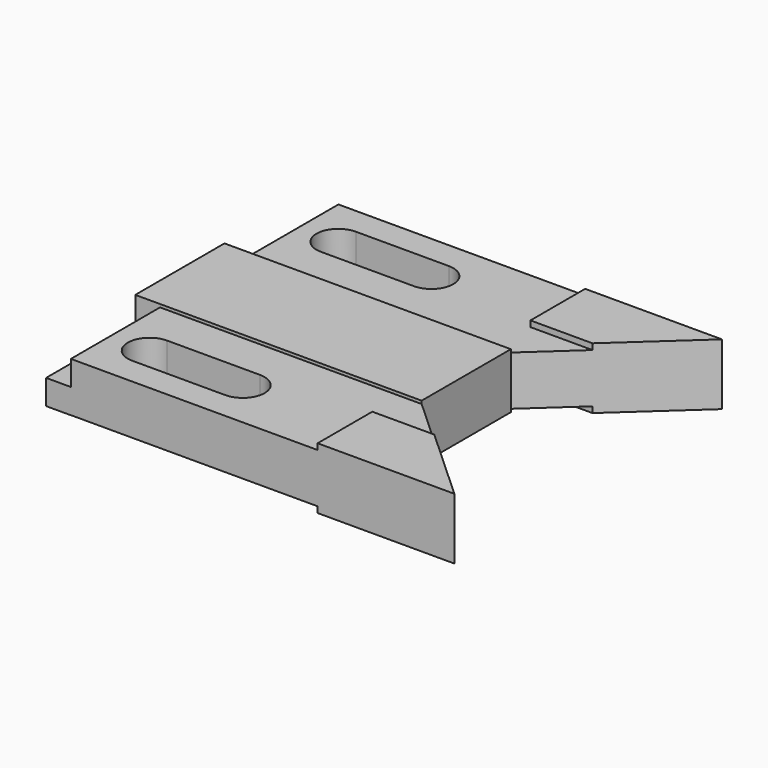
from build123d import *

# Parameters (mm, degrees)
F0_W     = 73.406
F0_H     = 28.575
F2_DEPTH = 7.112
F3_DEPTH = 6.35
F1_W     = 6.35
F1_H     = 28.575
F4_DEPTH = 6.3754
F5_DEPTH = 7.874


with BuildPart() as f2:
    # F0 (on Top) → F2 (new body, symmetric)
    with BuildSketch(Plane.XY):
        Rectangle(F0_W, F0_H)
    extrude(amount=F2_DEPTH, both=True)

    # F1 (on Top) → F3 (join, symmetric)
    with BuildSketch(Plane.XY):
        Polygon((-30.353, 42.8625), (-30.353, 14.2875), (36.703, 14.2875), (48.78324, 25.3365), (32.893, 25.3365), (32.893, 42.8625), align=None)
        with BuildLine():
            ThreePointArc((-20.270586, 24.638), (-25.858586, 30.226), (-20.270586, 35.814))
            Line((-20.270586, 35.814), (3.605414, 35.814))
            ThreePointArc((3.605414, 35.814), (9.193414, 30.226), (3.605414, 24.638))
            Line((3.605414, 24.638), (-20.270586, 24.638))
        make_face(mode=Mode.SUBTRACT)
        Polygon((36.703, -14.2875), (-30.353, -14.2875), (-30.353, -42.8625), (32.893, -42.8625), (32.893, -25.3365), (48.78324, -25.3365), align=None)
        with BuildLine():
            ThreePointArc((-20.270586, -35.814), (-25.858586, -30.226), (-20.270586, -24.638))
            Line((-20.270586, -24.638), (3.605414, -24.638))
            ThreePointArc((3.605414, -24.638), (9.193414, -30.226), (3.605414, -35.814))
            Line((3.605414, -35.814), (-20.270586, -35.814))
        make_face(mode=Mode.SUBTRACT)
    extrude(amount=F3_DEPTH, both=True)

    # F1 (on Top) → F4 (join)
    with BuildSketch(Plane.XY):
        with Locations((-33.528, -28.575)):
            Rectangle(F1_W, F1_H)
        with Locations((-33.528, 28.575)):
            Rectangle(F1_W, F1_H)
    extrude(amount=-F4_DEPTH)

    # F1 (on Top) → F5 (join, symmetric)
    with BuildSketch(Plane.XY):
        Polygon((32.893, -25.3365), (32.893, -42.8625), (67.945, -42.8625), (48.78324, -25.3365), align=None)
        Polygon((67.945, 42.8625), (32.893, 42.8625), (32.893, 25.3365), (48.78324, 25.3365), align=None)
    extrude(amount=F5_DEPTH, both=True)


solid = f2.part
